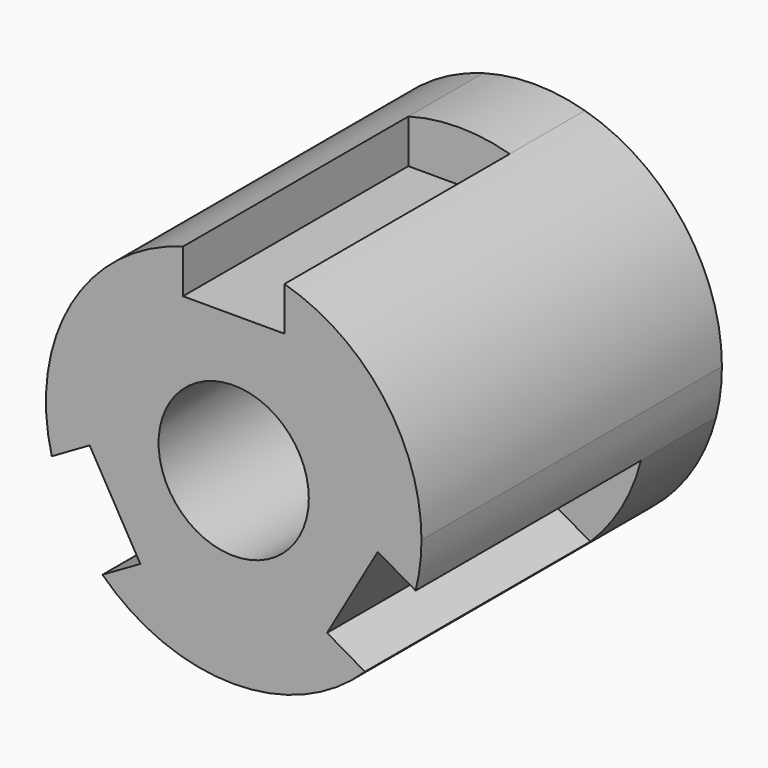
from build123d import *

# Parameters (mm, degrees)
F0_R     = 4
F1_DEPTH = 20
F2_DEPTH = 15


with BuildPart() as f1:
    # F0 (on Front) → F1 (new body)
    with BuildSketch(Plane.XZ):
        with BuildLine():
            ThreePointArc((9.688615, -2.476033), (9.921848, -1.247768), (10, 0))
            ThreePointArc((10, 0), (7.968689, 6.041523), (2.7, 9.628603))
            Line((2.7, 9.628603), (2.7, 7.3))
            Line((2.7, 7.3), (-2.7, 7.3))
            Line((-2.7, 7.3), (-2.7, 9.628603))
            ThreePointArc((-2.7, 9.628603), (-8.660254, 5), (-9.688615, -2.476033))
            Line((-9.688615, -2.476033), (-7.671985, -1.311731))
            Line((-7.671985, -1.311731), (-4.971985, -5.988269))
            Line((-4.971985, -5.988269), (-6.988615, -7.15257))
            ThreePointArc((-6.988615, -7.15257), (0, -10), (6.988615, -7.15257))
            Line((6.988615, -7.15257), (4.971985, -5.988269))
            Line((4.971985, -5.988269), (7.671985, -1.311731))
            Line((7.671985, -1.311731), (9.688615, -2.476033))
        make_face()
        Circle(F0_R, mode=Mode.SUBTRACT)
        with BuildLine():
            Line((-7.671985, -1.311731), (-9.688615, -2.476033))
            ThreePointArc((-9.688615, -2.476033), (-8.660254, -5), (-6.988615, -7.15257))
            Line((-6.988615, -7.15257), (-4.971985, -5.988269))
            Line((-4.971985, -5.988269), (-7.671985, -1.311731))
        make_face()
        with BuildLine():
            Line((2.7, 7.3), (2.7, 9.628603))
            ThreePointArc((2.7, 9.628603), (0, 10), (-2.7, 9.628603))
            Line((-2.7, 9.628603), (-2.7, 7.3))
            Line((-2.7, 7.3), (2.7, 7.3))
        make_face()
        with BuildLine():
            ThreePointArc((6.988615, -7.15257), (8.660254, -5), (9.688615, -2.476033))
            Line((9.688615, -2.476033), (7.671985, -1.311731))
            Line((7.671985, -1.311731), (4.971985, -5.988269))
            Line((4.971985, -5.988269), (6.988615, -7.15257))
        make_face()
    extrude(amount=-F1_DEPTH)

    # F0 (on Front) → F2 (cut)
    with BuildSketch(Plane.XZ):
        with BuildLine():
            Line((-7.671985, -1.311731), (-9.688615, -2.476033))
            ThreePointArc((-9.688615, -2.476033), (-8.660254, -5), (-6.988615, -7.15257))
            Line((-6.988615, -7.15257), (-4.971985, -5.988269))
            Line((-4.971985, -5.988269), (-7.671985, -1.311731))
        make_face()
        with BuildLine():
            Line((2.7, 7.3), (2.7, 9.628603))
            ThreePointArc((2.7, 9.628603), (0, 10), (-2.7, 9.628603))
            Line((-2.7, 9.628603), (-2.7, 7.3))
            Line((-2.7, 7.3), (2.7, 7.3))
        make_face()
        with BuildLine():
            ThreePointArc((6.988615, -7.15257), (8.660254, -5), (9.688615, -2.476033))
            Line((9.688615, -2.476033), (7.671985, -1.311731))
            Line((7.671985, -1.311731), (4.971985, -5.988269))
            Line((4.971985, -5.988269), (6.988615, -7.15257))
        make_face()
    extrude(amount=-F2_DEPTH, mode=Mode.SUBTRACT)


solid = f1.part
